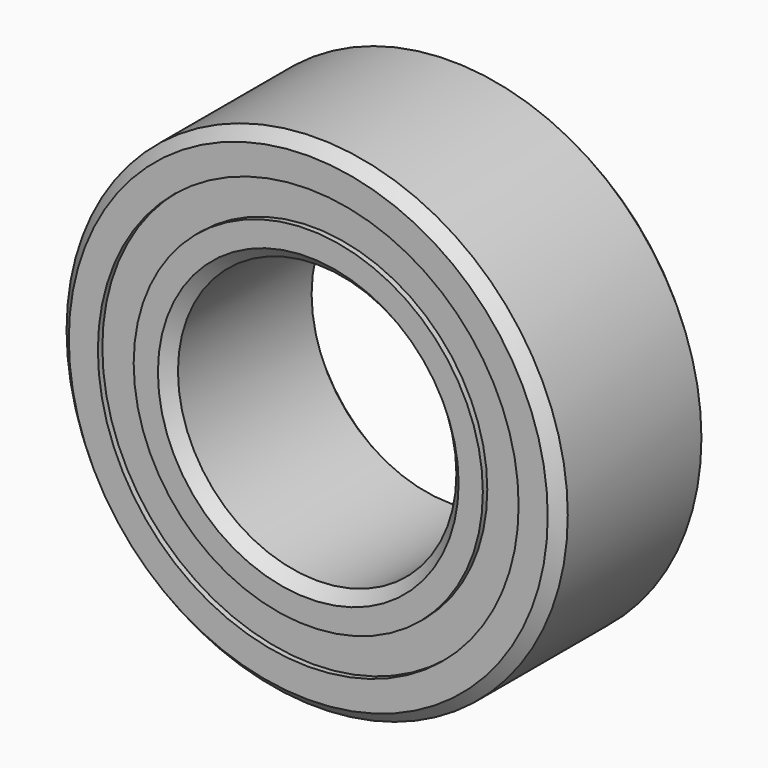
from build123d import *

# Parameters (mm, degrees)
F0_R     = 45
F0_R_2   = 25
F1_DEPTH = 34
F2_SIZE  = 2
F3_SIZE  = 2
F4_SIZE  = 2
F5_R     = 37.775597
F5_R_2   = 31.34905
F6_DEPTH = 1
F7_R     = 37.775597
F7_R_2   = 31.34905
F8_DEPTH = 1


with BuildPart() as f1:
    # F0 (on Front) → F1 (new body)
    with BuildSketch(Plane.XZ):
        Circle(F0_R)
        Circle(F0_R_2, mode=Mode.SUBTRACT)
    extrude(amount=F1_DEPTH)

    # F2
    f2_edges = [f1.edges().sort_by_distance(p)[0] for p in [
        (-45, -34, 0),
        (-45, 0, 0),
    ]]
    chamfer(f2_edges, length=F2_SIZE)

    # F3
    f3_edges = [f1.edges().sort_by_distance(p)[0] for p in [
        (-25, -34, 0),
    ]]
    chamfer(f3_edges, length=F3_SIZE)

    # F4
    f4_edges = [f1.edges().sort_by_distance(p)[0] for p in [
        (-25, 0, 0),
    ]]
    chamfer(f4_edges, length=F4_SIZE)

    # F5 (on face) → F6 (cut)
    with BuildSketch(Plane(origin=(0, 0, 0), x_dir=(-1, 0, 0), z_dir=(0, 1, 0))):
        Circle(F5_R)
        Circle(F5_R_2, mode=Mode.SUBTRACT)
    extrude(amount=-F6_DEPTH, mode=Mode.SUBTRACT)

    # F7 (on face) → F8 (cut)
    with BuildSketch(Plane.XZ.offset(34)):
        Circle(F7_R)
        Circle(F7_R_2, mode=Mode.SUBTRACT)
    extrude(amount=-F8_DEPTH, mode=Mode.SUBTRACT)


solid = f1.part
